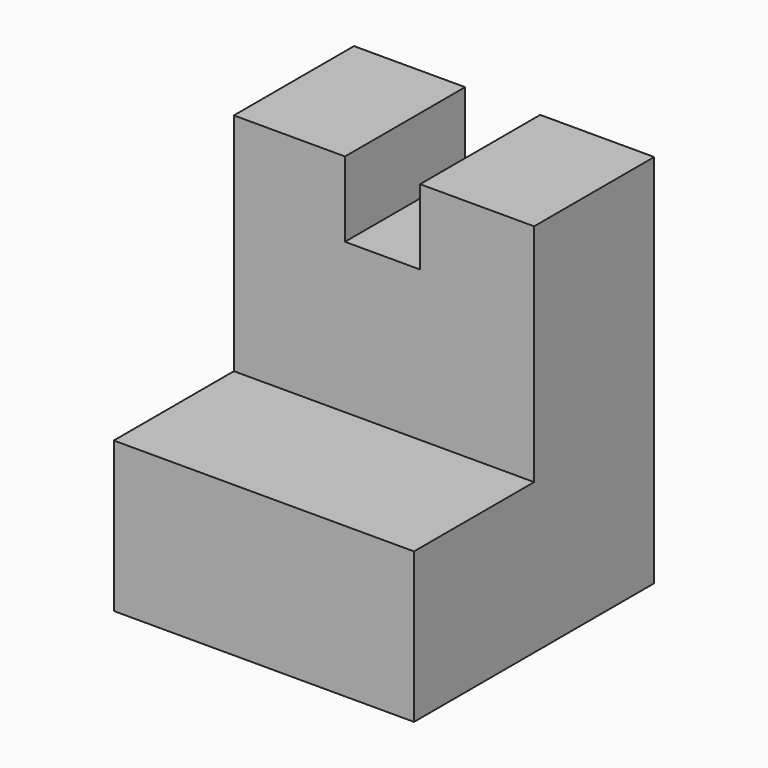
from build123d import *

# Parameters (mm, degrees)
F1_DEPTH = 25.4
F2_W     = 6.35
F2_H     = 6.3555249125
F3_DEPTH = 25.401


with BuildPart() as f1:
    # F0 (on Right) → F1 (new body)
    with BuildSketch(Plane.YZ):
        Polygon((-25.4, 0), (0, 0), (0, 31.75), (-12.7, 31.75), (-12.7, 12.7), (-25.4, 12.7), align=None)
    extrude(amount=F1_DEPTH)

    # F2 (on face) → F3 (cut, through all)
    with BuildSketch(Plane(origin=(0, 0, 0), x_dir=(-1, 0, 0), z_dir=(0, 1, 0))):
        with Locations((-12.577390027, 28.5722375438)):
            Rectangle(F2_W, F2_H)
    extrude(amount=-F3_DEPTH, mode=Mode.SUBTRACT)


solid = f1.part
